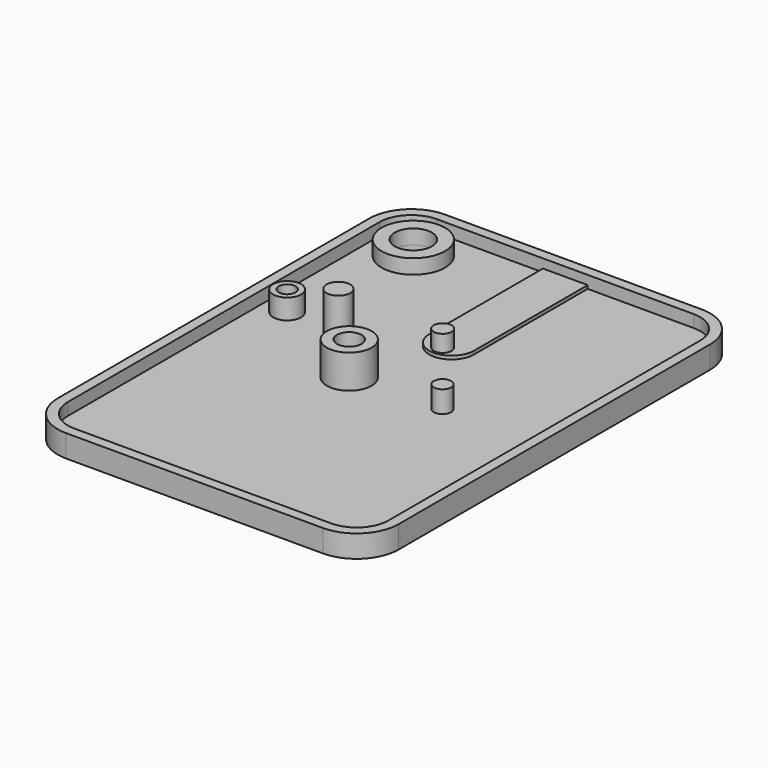
from build123d import *

# Parameters (mm, degrees)
F1_DEPTH  = 4
F2_T      = -1.8
F3_R      = 3.325
F3_R_2    = 2.2
F4_DEPTH  = 1.801
F3_R_3    = 1.6
F5_DEPTH  = 0.6
F3_R_4    = 5.675
F6_DEPTH  = 2.6
F3_R_5    = 2.5
F3_R_6    = 1.5
F7_DEPTH  = 3.6
F3_R_7    = 1.55
F8_DEPTH  = 3.9
F3_R_8    = 4
F9_DEPTH  = 6
F3_R_9    = 2.1
F10_DEPTH = 9.2


with BuildPart() as f1:
    # F0 (on Top) → F1 (new body)
    with BuildSketch(Plane.XY):
        with BuildLine():
            Line((-22.95, -42.3), (22.95, -42.3))
            ThreePointArc((22.95, -42.3), (28.2533008589, -40.1033008589), (30.45, -34.8))
            Line((30.45, -34.8), (30.45, 34.8))
            ThreePointArc((30.45, 34.8), (28.2533008589, 40.1033008589), (22.95, 42.3))
            Line((22.95, 42.3), (-22.95, 42.3))
            ThreePointArc((-22.95, 42.3), (-28.2533008589, 40.1033008589), (-30.45, 34.8))
            Line((-30.45, 34.8), (-30.45, -34.8))
            ThreePointArc((-30.45, -34.8), (-28.2533008589, -40.1033008589), (-22.95, -42.3))
        make_face()
    extrude(amount=F1_DEPTH)

    # F2
    f2_openings = [f1.faces().sort_by_distance(p)[0] for p in [
        (0, 0, 4),
    ]]
    offset(amount=F2_T, openings=f2_openings)

    # F3 (on face) → F4 (cut, through all)
    with BuildSketch(Plane.XY.offset(1.8)):
        with Locations((-21.22, 33.07)):
            Circle(F3_R)
        with Locations((-5.25, -1.2)):
            Circle(F3_R_2)
    extrude(amount=-F4_DEPTH, mode=Mode.SUBTRACT)

    # F3 (on face) → F5 (join)
    with BuildSketch(Plane.XY.offset(1.8)):
        with BuildLine():
            ThreePointArc((-4, 15.1), (0, 11.1), (4, 15.1))
            Line((4, 15.1), (4, 40.5))
            Line((4, 40.5), (-4, 40.5))
            Line((-4, 40.5), (-4, 15.1))
        make_face()
        with Locations((0, 13.1)):
            Circle(F3_R_3, mode=Mode.SUBTRACT)
    extrude(amount=F5_DEPTH)

    # F3 (on face) → F6 (join)
    with BuildSketch(Plane.XY.offset(1.8)):
        with Locations((-21.22, 33.07)):
            Circle(F3_R_4)
        with Locations((-21.22, 33.07)):
            Circle(F3_R, mode=Mode.SUBTRACT)
    extrude(amount=F6_DEPTH)

    # F3 (on face) → F7 (join)
    with BuildSketch(Plane.XY.offset(1.8)):
        with Locations((0, 13.1)):
            Circle(F3_R_3)
        with Locations((-24.35, 8.8)):
            Circle(F3_R_5)
        with Locations((-24.35, 8.8)):
            Circle(F3_R_6, mode=Mode.SUBTRACT)
    extrude(amount=F7_DEPTH)

    # F3 (on face) → F8 (join)
    with BuildSketch(Plane.XY.offset(1.8)):
        with Locations((10.85, -0.5)):
            Circle(F3_R_7)
    extrude(amount=F8_DEPTH)

    # F3 (on face) → F9 (join)
    with BuildSketch(Plane.XY.offset(1.8)):
        with Locations((-5.25, -1.2)):
            Circle(F3_R_8)
        with Locations((-5.25, -1.2)):
            Circle(F3_R_2, mode=Mode.SUBTRACT)
    extrude(amount=F9_DEPTH)

    # F3 (on face) → F10 (join)
    with BuildSketch(Plane.XY.offset(1.8)):
        with Locations((-12.15, 5)):
            Circle(F3_R_9)
    extrude(amount=F10_DEPTH)


solid = f1.part
